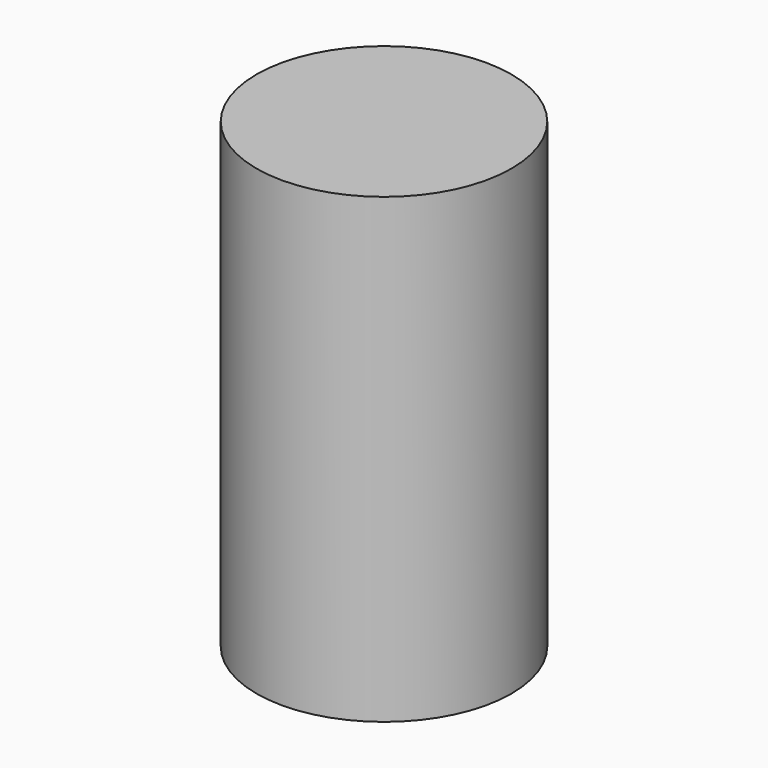
from build123d import *

# Parameters (mm, degrees)
F0_R     = 40
F1_DEPTH = 25
F2_DEPTH = 145


with BuildPart() as f1:
    # F0 (on Top) → F1 (new body)
    with BuildSketch(Plane.XY):
        with Locations((-1.623115, 0)):
            Circle(F0_R)
    extrude(amount=F1_DEPTH)

    # F0 (on Top) → F2 (join)
    with BuildSketch(Plane.XY):
        with Locations((-1.623115, 0)):
            Circle(F0_R)
    extrude(amount=F2_DEPTH)


solid = f1.part
